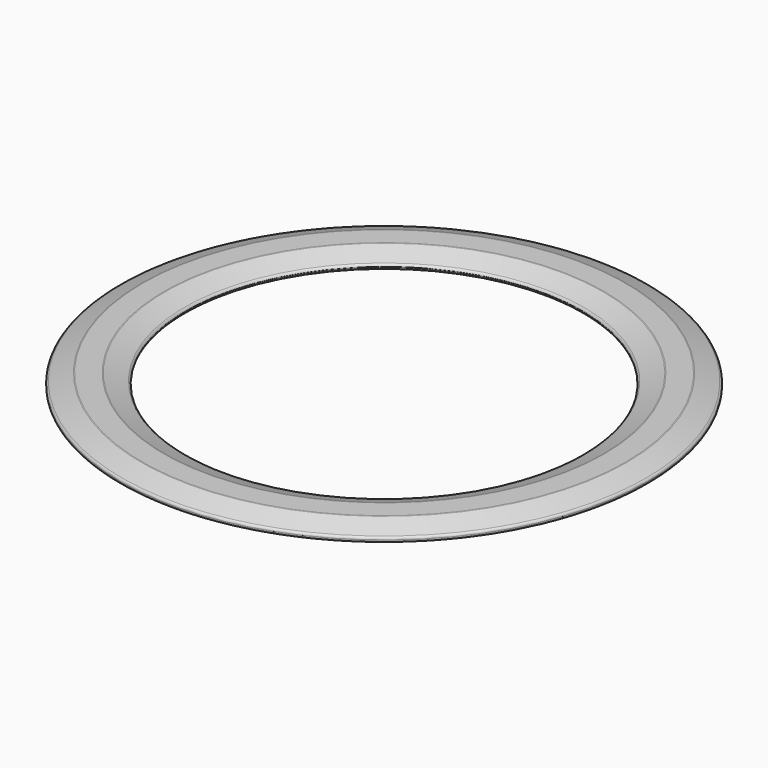
from build123d import *

# Parameters (mm, degrees)
F0_R       = 100
F1_DEPTH   = 7.5
F2_R       = 75
F3_DEPTH   = 25
F4_SIZE2   = 8.2424322584
F4_SIZE    = 3
F4_2_SIZE2 = 8.2424322584
F4_2_SIZE  = 3
F5_R       = 1


with BuildPart() as f1:
    # F0 (on Top) → F1 (new body)
    with BuildSketch(Plane.XY):
        Circle(F0_R)
    extrude(amount=F1_DEPTH)

    # F2 (on face) → F3 (cut)
    with BuildSketch(Plane.XY.offset(7.5)):
        Circle(F2_R)
    extrude(amount=-F3_DEPTH, mode=Mode.SUBTRACT)

    # F4
    f4_edges = [f1.edges().sort_by_distance(p)[0] for p in [
        (-100, 0, 0),
        (-100, 0, 7.5),
    ]]
    f4_side = f1.faces().sort_by_distance((-100, 0, 3.75))[0]
    chamfer(f4_edges, length=F4_SIZE, length2=F4_SIZE2, reference=f4_side)

    # F4#2
    f4_2_edges = [f1.edges().sort_by_distance(p)[0] for p in [
        (-75, 0, 0),
        (-75, 0, 7.5),
    ]]
    f4_2_side = f1.faces().sort_by_distance((-75, 0, 3.75))[0]
    chamfer(f4_2_edges, length=F4_2_SIZE, length2=F4_2_SIZE2, reference=f4_2_side)

    # F5
    f5_edges = [f1.edges().sort_by_distance(p)[0] for p in [
        (-100, 0, 3),
        (-100, 0, 4.5),
        (-91.757568, 0, 0),
        (-83.242432, 0, 0),
        (-75, 0, 3),
        (-75, 0, 4.5),
        (-91.757568, 0, 7.5),
        (-83.242432, 0, 7.5),
    ]]
    fillet(f5_edges, radius=F5_R)


solid = f1.part
